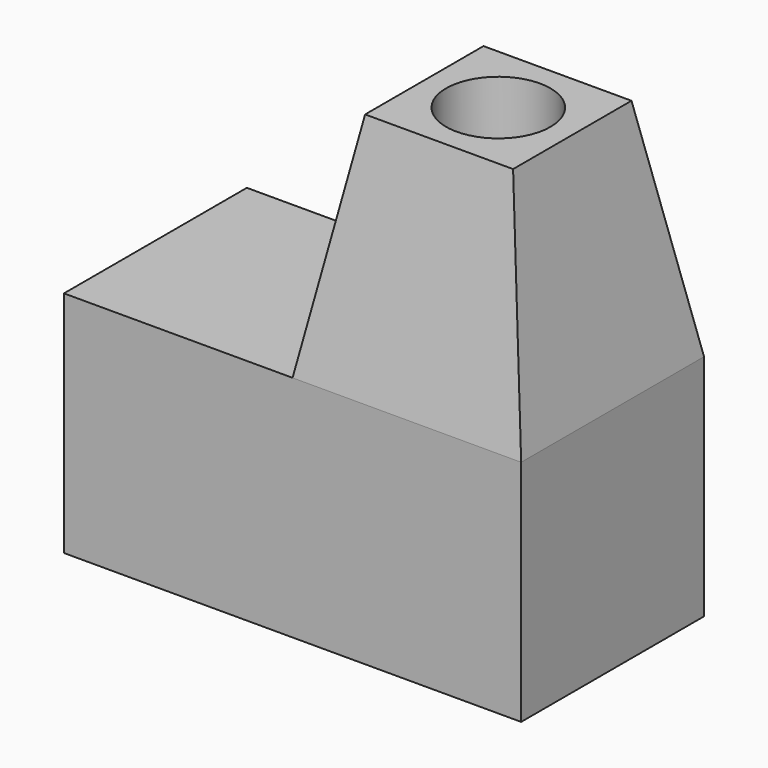
from build123d import *

# Parameters (mm, degrees)
F0_W     = 60
F0_H     = 30
F1_DEPTH = 30
F2_W     = 30
F2_H     = 30
F3_DEPTH = 30
F3_TAPER = 10
F4_R     = 6.8497431599
F5_DEPTH = 25.4


with BuildPart() as f1:
    # F0 (on Front) → F1 (new body)
    with BuildSketch(Plane.XZ):
        with Locations((0.4317071289, 0.4612154852)):
            Rectangle(F0_W, F0_H)
    extrude(amount=F1_DEPTH)

    # F2 (on face) → F3 (join)
    with BuildSketch(Plane.XY.offset(15.4612154852)):
        with Locations((15.4317071289, -15)):
            Rectangle(F2_W, F2_H)
    extrude(amount=F3_DEPTH, taper=F3_TAPER)

    # F4 (on face) → F5 (cut)
    with BuildSketch(Plane.XY.offset(45.4612154852)):
        with Locations((15.4317071289, -15)):
            Circle(F4_R)
    extrude(amount=-F5_DEPTH, mode=Mode.SUBTRACT)


solid = f1.part
